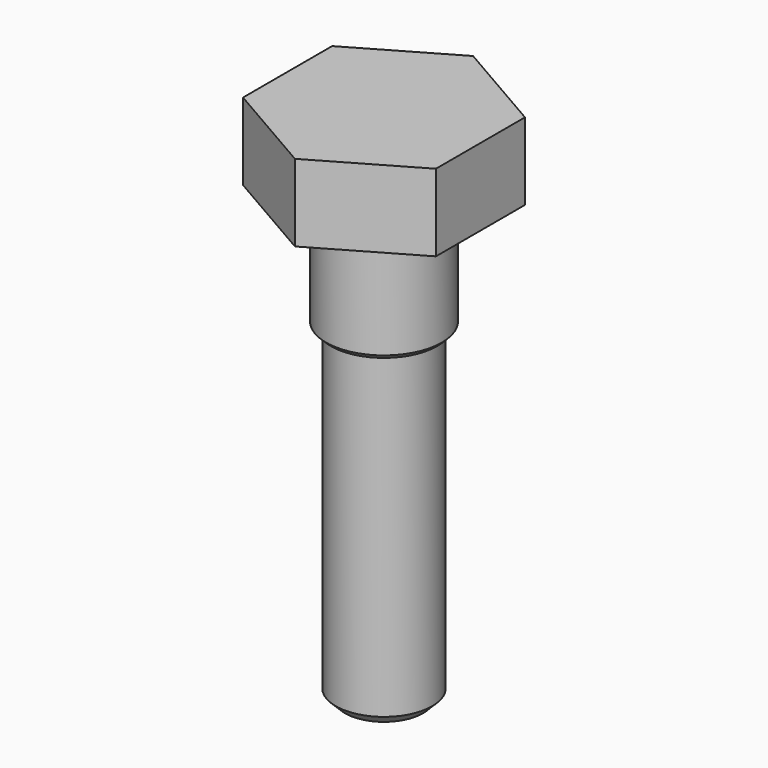
from build123d import *

# Parameters (mm, degrees)
F1_DEPTH = 12.7
F2_R     = 9.525
F3_DEPTH = 19.05
F4_R     = 7.9375
F5_DEPTH = 53.975
F6_SIZE  = 1.524
F7_SIZE  = 0.762


with BuildPart() as f1:
    # F0 (on Top) → F1 (new body)
    with BuildSketch(Plane.XY):
        Polygon((-15.875, 9.165436), (-15.875, -9.165436), (0, -18.330871), (15.875, -9.165436), (15.875, 9.165436), (0, 18.330871), align=None)
    extrude(amount=F1_DEPTH)

    # F2 (on face) → F3 (join)
    with BuildSketch(Plane(origin=(0, 0, 0), x_dir=(1, 0, 0), z_dir=(0, 0, -1))):
        Circle(F2_R)
    extrude(amount=F3_DEPTH)

    # F4 (on face) → F5 (join)
    with BuildSketch(Plane(origin=(0, 0, -19.05), x_dir=(1, 0, 0), z_dir=(0, 0, -1))):
        Circle(F4_R)
    extrude(amount=F5_DEPTH)

    # F6
    f6_edges = [f1.edges().sort_by_distance(p)[0] for p in [
        (-7.9375, 0, -73.025),
    ]]
    chamfer(f6_edges, length=F6_SIZE)

    # F7
    f7_edges = [f1.edges().sort_by_distance(p)[0] for p in [
        (-9.525, 0, -19.05),
    ]]
    chamfer(f7_edges, length=F7_SIZE)


solid = f1.part
